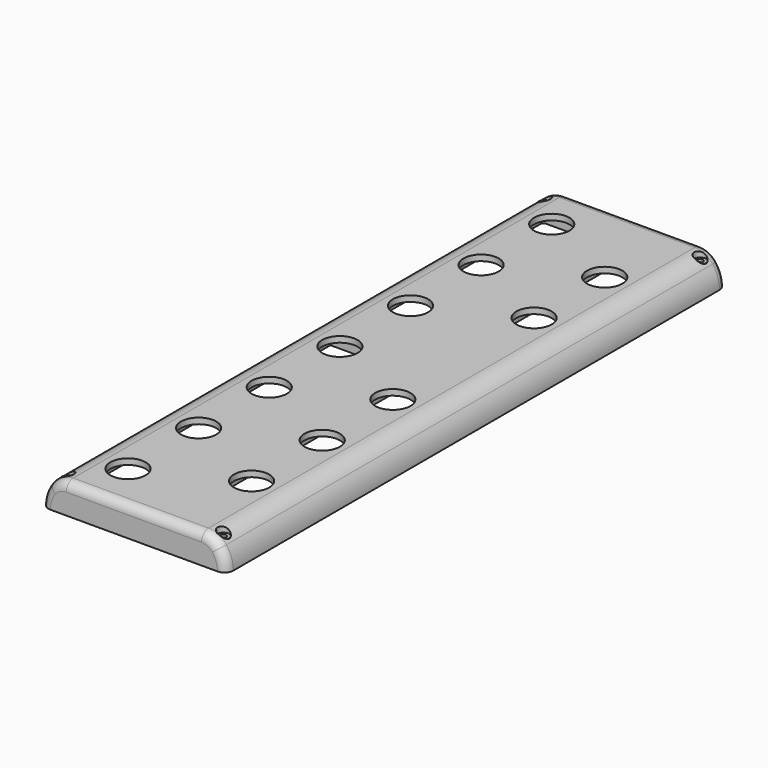
from build123d import *

# Parameters (mm, degrees)
PAD_DEPTH       = 212.5
FILLET_R        = 3
THICKNESS_T     = -2
SKETCH001_R     = 2
POCKET_DEPTH    = 10.001
SKETCH002_R     = 2
SKETCH002_R_2   = 1
PAD001_DEPTH    = 0.9
SKETCH003_R     = 6
POCKET001_DEPTH = 3.001
PAD002_DEPTH    = 8
PAD003_DEPTH    = 2


with BuildPart() as part:
    # Sketch → Pad (new body)
    with BuildSketch(Plane.XZ):
        with BuildLine():
            Line((0, 0), (-31.4, 0))
            ThreePointArc((-29.043975, 7), (-30.795195, 3.692927), (-31.4, 0))
            ThreePointArc((-23, 10), (-26.373783, 9.208747), (-29.043975, 7))
            Line((-23, 10), (0, 10))
            Line((0, 10), (23, 10))
            ThreePointArc((29.043965, 7.000013), (26.373775, 9.20875), (23, 10))
            ThreePointArc((31.4, 0), (30.795194, 3.692936), (29.043965, 7.000013))
            Line((0, 0), (31.4, 0))
        make_face()
    extrude(amount=PAD_DEPTH)

    # Fillet
    fillet_edges = [part.edges().sort_by_distance(p)[0] for p in [
        (11.5, -212.5, 10),
        (11.5, 0, 10),
    ]]
    fillet(fillet_edges, radius=FILLET_R)

    # Thickness
    thickness_openings = [part.faces().sort_by_distance(p)[0] for p in [
        (-15.691294, -106.25, 0),
        (15.691294, -106.25, 0),
    ]]
    offset(amount=THICKNESS_T, openings=thickness_openings)

    # Sketch001 (on Face22 of Thickness) → Pocket (cut, through all)
    with BuildSketch(Plane(origin=(0, 0, 0), x_dir=(1, 0, 0), z_dir=(0, 0, -1))):
        with Locations((-26.4, 207.5)):
            Circle(SKETCH001_R)
        with Locations((26.4, 207.5)):
            Circle(SKETCH001_R)
        with Locations((-26.4, 5)):
            Circle(SKETCH001_R)
        with Locations((26.4, 5)):
            Circle(SKETCH001_R)
    extrude(amount=-POCKET_DEPTH, mode=Mode.SUBTRACT)

    # Sketch002 (on DatumPlane) → Pad001 (join)
    with BuildSketch(Plane(origin=(0, 0, 7), x_dir=(1, 0, 0), z_dir=(0, 0, -1))):
        with Locations((26.4, 5)):
            Circle(SKETCH002_R)
        with Locations((26.4, 5)):
            Circle(SKETCH002_R_2, mode=Mode.SUBTRACT)
        with Locations((-26.4, 5)):
            Circle(SKETCH002_R)
        with Locations((-26.4, 5)):
            Circle(SKETCH002_R_2, mode=Mode.SUBTRACT)
        with Locations((-26.4, 207.5)):
            Circle(SKETCH002_R)
        with Locations((-26.4, 207.5)):
            Circle(SKETCH002_R_2, mode=Mode.SUBTRACT)
        with Locations((26.4, 207.5)):
            Circle(SKETCH002_R)
        with Locations((26.4, 207.5)):
            Circle(SKETCH002_R_2, mode=Mode.SUBTRACT)
    extrude(amount=-PAD001_DEPTH)

    # Sketch003 (on Face61 of Pad001) → Pocket001 (cut, through all)
    with BuildSketch(Plane(origin=(0, 0, 7), x_dir=(1, 0, 0), z_dir=(0, 0, -1))):
        with Locations((-15, 16.25)):
            Circle(SKETCH003_R)
        with Locations((-15, 46.25)):
            Circle(SKETCH003_R)
        with Locations((-15, 76.25)):
            Circle(SKETCH003_R)
        with Locations((-15, 106.25)):
            Circle(SKETCH003_R)
        with Locations((-15, 136.25)):
            Circle(SKETCH003_R)
        with Locations((15, 31.25)):
            Circle(SKETCH003_R)
        with Locations((15, 61.25)):
            Circle(SKETCH003_R)
        with Locations((15, 121.25)):
            Circle(SKETCH003_R)
        with Locations((15, 151.25)):
            Circle(SKETCH003_R)
        with Locations((15, 181.25)):
            Circle(SKETCH003_R)
        with Locations((-15, 166.25)):
            Circle(SKETCH003_R)
        with Locations((-15, 196.25)):
            Circle(SKETCH003_R)
    extrude(amount=-POCKET001_DEPTH, mode=Mode.SUBTRACT)

    # Sketch004 (on Face6 of Pocket001) → Pad002 (join)
    with BuildSketch(Plane(origin=(0, 0, 0), x_dir=(1, 0, 0), z_dir=(0, 0, -1))):
        Polygon((0, 1), (-1, 1), (-1, 211.5), (1, 211.5), (1, 1), align=None)
    extrude(amount=-PAD002_DEPTH)

    # Sketch006 (on DatumPlane) → Pad003 (join)
    with BuildSketch(Plane(origin=(31.4, -92.25, 0), x_dir=(0, 0, 1), z_dir=(0, -1, 0))):
        with BuildLine():
            Line((0, 62.8), (0, 0))
            ThreePointArc((0, 0), (3.692936, 0.604806), (7.000013, 2.356035))
            ThreePointArc((7.000013, 2.356035), (9.20875, 5.026225), (10, 8.4))
            Line((10, 54.4), (10, 8.4))
            ThreePointArc((10, 54.4), (9.208747, 57.773783), (7, 60.443975))
            ThreePointArc((7, 60.443975), (3.692927, 62.195195), (0, 62.8))
        make_face()
    extrude(amount=-PAD003_DEPTH)


solid = part.part
